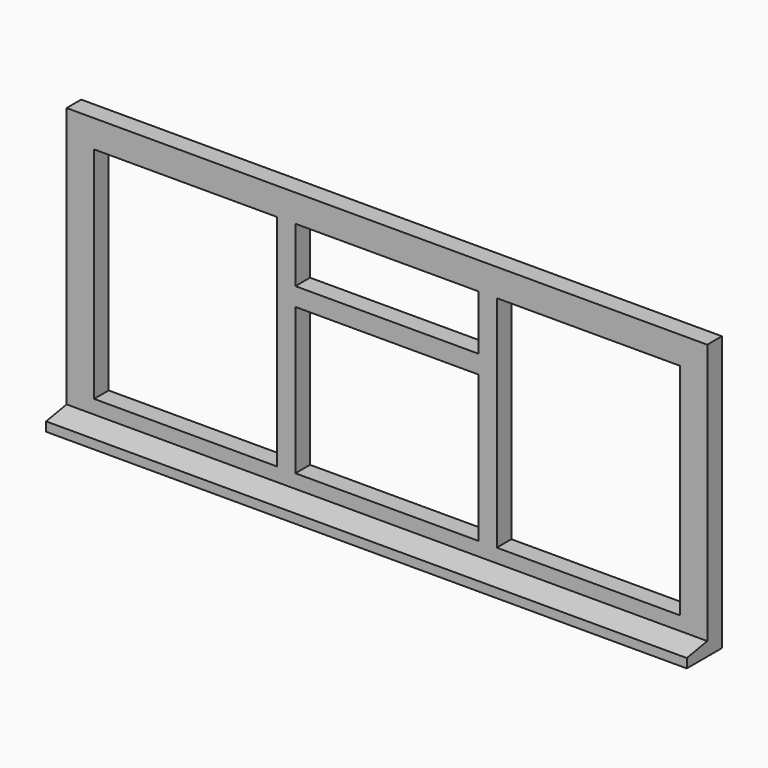
from build123d import *

# Parameters (mm, degrees)
F0_W     = 1750
F0_H     = 750
F0_W_2   = 500
F0_H_2   = 400
F0_H_3   = 600
F0_H_4   = 150
F1_DEPTH = 50
F3_DEPTH = 1750


with BuildPart() as f1:
    # F0 (on Front) → F1 (new body)
    with BuildSketch(Plane.XZ):
        with Locations((875, -375)):
            Rectangle(F0_W, F0_H)
        with Locations((875, -475)):
            Rectangle(F0_W_2, F0_H_2, mode=Mode.SUBTRACT)
        with Locations((325, -375)):
            Rectangle(F0_W_2, F0_H_3, mode=Mode.SUBTRACT)
        with Locations((1425, -375)):
            Rectangle(F0_W_2, F0_H_3, mode=Mode.SUBTRACT)
        with Locations((875, -150)):
            Rectangle(F0_W_2, F0_H_4, mode=Mode.SUBTRACT)
    extrude(amount=-F1_DEPTH)

    # F2 (on face) → F3 (join)
    with BuildSketch(Plane.YZ.offset(1750)):
        Polygon((-70, -750), (0, -750), (0, -712.657111), (-70, -725), align=None)
    extrude(amount=-F3_DEPTH)


solid = f1.part
